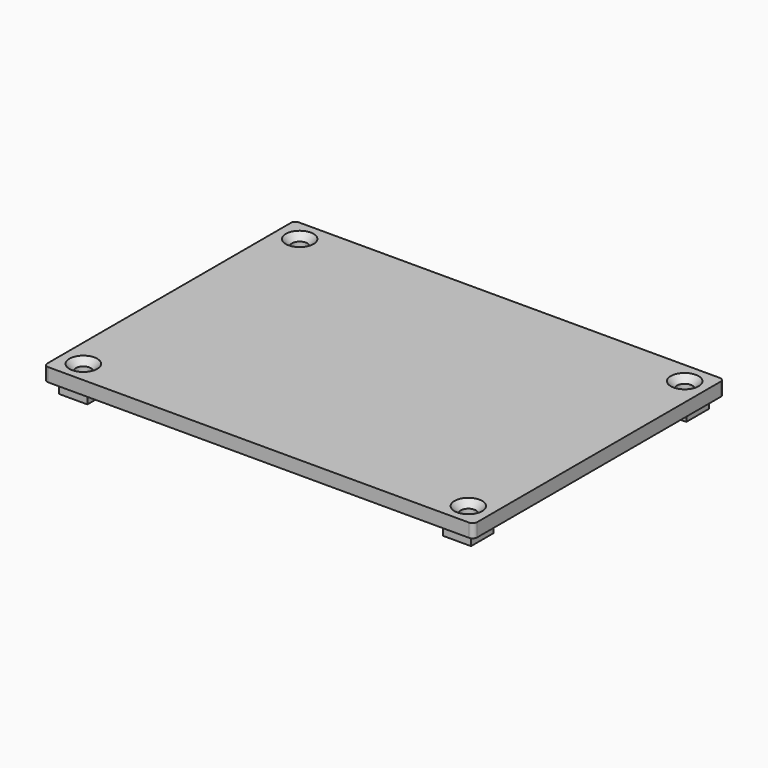
from build123d import *

# Parameters (mm, degrees)
SKETCH016_W     = 96
SKETCH016_H     = 70
PAD003_DEPTH    = 3
SKETCH017_W     = 6.3
SKETCH017_H     = 6.3
PAD004_DEPTH    = 2.7
SKETCH018_R     = 1.7
POCKET013_DEPTH = 5.701
SKETCH019_W     = 79.4
SKETCH019_H     = 2
SKETCH019_W_2   = 2
SKETCH019_H_2   = 53.8
PAD005_DEPTH    = 1
SKETCH020_W     = 9
SKETCH020_H     = 1.8
PAD006_DEPTH    = 4.3
SKETCH021_W     = 9
SKETCH021_H     = 0.3
POCKET014_DEPTH = 3.3
SKETCH022_W     = 2
SKETCH022_H     = 5.4
PAD007_DEPTH    = 1
SKETCH023_W     = 1.7
SKETCH023_H     = 5.4
PAD008_DEPTH    = 10.6
SKETCH024_R     = 3
POCKET015_DEPTH = 96.001
SKETCH025_W     = 1.7
SKETCH025_H     = 5.4
PAD009_DEPTH    = 10.6
SKETCH026_R     = 3
POCKET016_DEPTH = 96.001
FILLET004_R     = 1
FILLET005_R     = 1
CHAMFER001_SIZE = 1.4


with BuildPart() as part:
    # Sketch016 → Pad003 (new body)
    with BuildSketch(Plane.XY.offset(22.8)):
        Rectangle(SKETCH016_W, SKETCH016_H)
    extrude(amount=PAD003_DEPTH)

    # Sketch017 (on Face5 of Pad003) → Pad004 (join)
    with BuildSketch(Plane(origin=(0, 0, 22.8), x_dir=(1, 0, 0), z_dir=(0, 0, -1))):
        with Locations((-42.85, 30.05)):
            Rectangle(SKETCH017_W, SKETCH017_H)
        with Locations((42.85, 30.05)):
            Rectangle(SKETCH017_W, SKETCH017_H)
        with Locations((42.85, -30.05)):
            Rectangle(SKETCH017_W, SKETCH017_H)
        with Locations((-42.85, -30.05)):
            Rectangle(SKETCH017_W, SKETCH017_H)
    extrude(amount=PAD004_DEPTH)

    # Sketch018 (on Face5 of Pad004) → Pocket013 (cut, through all)
    with BuildSketch(Plane.XY.offset(25.8)):
        with Locations((-43, 30.2)):
            Circle(SKETCH018_R)
        with Locations((43, 30.2)):
            Circle(SKETCH018_R)
        with Locations((43, -30.2)):
            Circle(SKETCH018_R)
        with Locations((-43, -30.2)):
            Circle(SKETCH018_R)
    extrude(amount=-POCKET013_DEPTH, mode=Mode.SUBTRACT)

    # Sketch019 (on Face4 of Pocket013) → Pad005 (join)
    with BuildSketch(Plane(origin=(0, 0, 22.8), x_dir=(1, 0, 0), z_dir=(0, 0, -1))):
        with Locations((0, -32.2)):
            Rectangle(SKETCH019_W, SKETCH019_H)
        with Locations((-45, 0)):
            Rectangle(SKETCH019_W_2, SKETCH019_H_2)
        with Locations((0, 32.2)):
            Rectangle(SKETCH019_W, SKETCH019_H)
        with Locations((45, 0)):
            Rectangle(SKETCH019_W_2, SKETCH019_H_2)
    extrude(amount=PAD005_DEPTH)

    # Sketch020 (on Face4 of Pad005) → Pad006 (join)
    with BuildSketch(Plane(origin=(0, 0, 22.8), x_dir=(1, 0, 0), z_dir=(0, 0, -1))):
        with Locations((17.1, -34.1)):
            Rectangle(SKETCH020_W, SKETCH020_H)
    extrude(amount=PAD006_DEPTH)

    # Sketch021 (on Face23 of Pad006) → Pocket014 (cut)
    with BuildSketch(Plane(origin=(0, 0, 18.5), x_dir=(1, 0, 0), z_dir=(0, 0, -1))):
        with Locations((17.1, -33.35)):
            Rectangle(SKETCH021_W, SKETCH021_H)
    extrude(amount=-POCKET014_DEPTH, mode=Mode.SUBTRACT)

    # Sketch022 (on Face4 of Pocket014) → Pad007 (join)
    with BuildSketch(Plane(origin=(0, 0, 22.8), x_dir=(1, 0, 0), z_dir=(0, 0, -1))):
        with Locations((-47, 9.5)):
            Rectangle(SKETCH022_W, SKETCH022_H)
        with Locations((-47, -9.5)):
            Rectangle(SKETCH022_W, SKETCH022_H)
    extrude(amount=PAD007_DEPTH)

    # Sketch023 (on Face39 of Pad007) → Pad008 (join)
    with BuildSketch(Plane(origin=(0, 0, 21.8), x_dir=(1, 0, 0), z_dir=(0, 0, -1))):
        with Locations((-47.15, -9.5)):
            Rectangle(SKETCH023_W, SKETCH023_H)
    extrude(amount=PAD008_DEPTH)

    # Sketch024 (on Face39 of Pad008) → Pocket015 (cut, through all)
    with BuildSketch(Plane(origin=(-48, 0, 0), x_dir=(0, -1, 0), z_dir=(-1, 0, 0))):
        with Locations((-9.5, 11.2)):
            Circle(SKETCH024_R)
    extrude(amount=-POCKET015_DEPTH, mode=Mode.SUBTRACT)

    # Sketch025 (on Face36 of Pocket015) → Pad009 (join)
    with BuildSketch(Plane(origin=(0, 0, 21.8), x_dir=(1, 0, 0), z_dir=(0, 0, -1))):
        with Locations((-47.15, 9.5)):
            Rectangle(SKETCH025_W, SKETCH025_H)
    extrude(amount=PAD009_DEPTH)

    # Sketch026 (on Face36 of Pad009) → Pocket016 (cut, through all)
    with BuildSketch(Plane(origin=(-48, 0, 0), x_dir=(0, -1, 0), z_dir=(-1, 0, 0))):
        with Locations((9.5, 11.2)):
            Circle(SKETCH026_R)
    extrude(amount=-POCKET016_DEPTH, mode=Mode.SUBTRACT)

    # Fillet004
    fillet004_edges = [part.edges().sort_by_distance(p)[0] for p in [
        (-39.7, -26.9, 21.45),
        (39.7, -26.9, 21.45),
        (39.7, 26.9, 21.45),
        (-39.7, 26.9, 21.45),
    ]]
    fillet(fillet004_edges, radius=FILLET004_R)

    # Fillet005
    fillet005_edges = [part.edges().sort_by_distance(p)[0] for p in [
        (-48, 35, 24.3),
        (-48, -35, 24.3),
        (48, -35, 24.3),
        (48, 35, 24.3),
    ]]
    fillet(fillet005_edges, radius=FILLET005_R)

    # Chamfer001
    chamfer001_edges = [part.edges().sort_by_distance(p)[0] for p in [
        (41.3, -30.2, 25.8),
        (-44.7, -30.2, 25.8),
        (41.3, 30.2, 25.8),
        (-44.7, 30.2, 25.8),
    ]]
    chamfer(chamfer001_edges, length=CHAMFER001_SIZE)


solid = part.part
